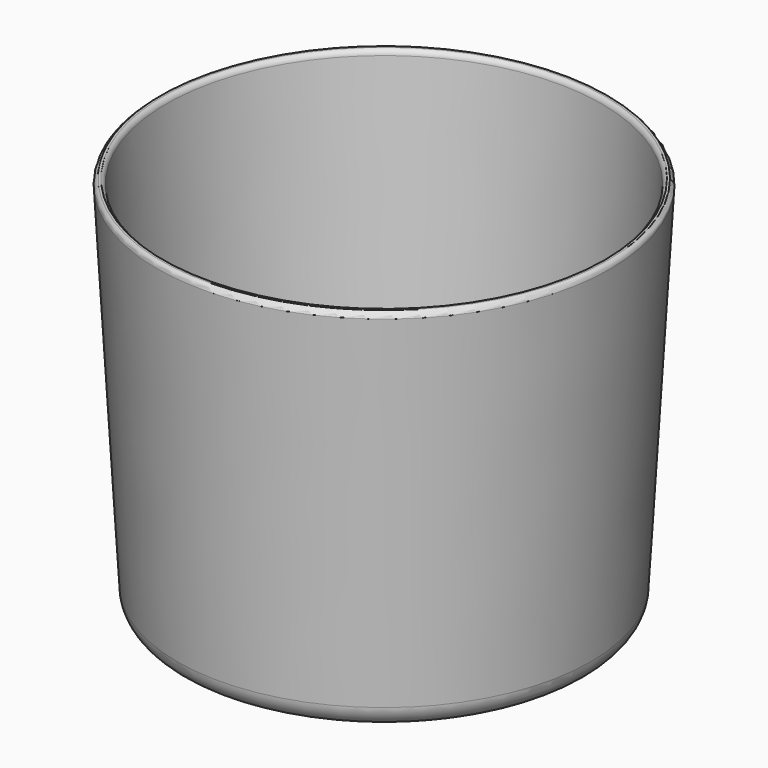
from build123d import *


with BuildPart() as f1:
    # F0 (on Front) → F1 (revolve)
    with BuildSketch(Plane.XZ):
        with BuildLine():
            ThreePointArc((49.204941, 82.55), (49.332796, 82.543548), (49.459352, 82.524257))
            ThreePointArc((49.459352, 82.524257), (49.585908, 82.543548), (49.713764, 82.55))
            Line((49.713764, 82.55), (49.204941, 82.55))
        make_face()
        with BuildLine():
            Line((41.415473, 0), (0, 0))
            Line((0, 0), (0, -2.032))
            Line((0, -2.032), (40.935567, -2.032))
            ThreePointArc((40.935567, -2.032), (44.424105, -0.644764), (46.007357, 2.759298))
            Line((46.007357, 2.759298), (50.472889, 81.207825))
            ThreePointArc((50.472889, 81.207825), (50.211243, 82.054763), (49.459352, 82.524257))
            ThreePointArc((49.459352, 82.524257), (48.753119, 82.1107), (48.445816, 81.352175))
            Line((48.445816, 81.352175), (43.951368, 2.395649))
            ThreePointArc((43.951368, 2.395649), (43.159742, 0.693618), (41.415473, 0))
        make_face()
    revolve(axis=Axis((0, 0, 39.45719), (0, 0, 1)))


solid = f1.part
